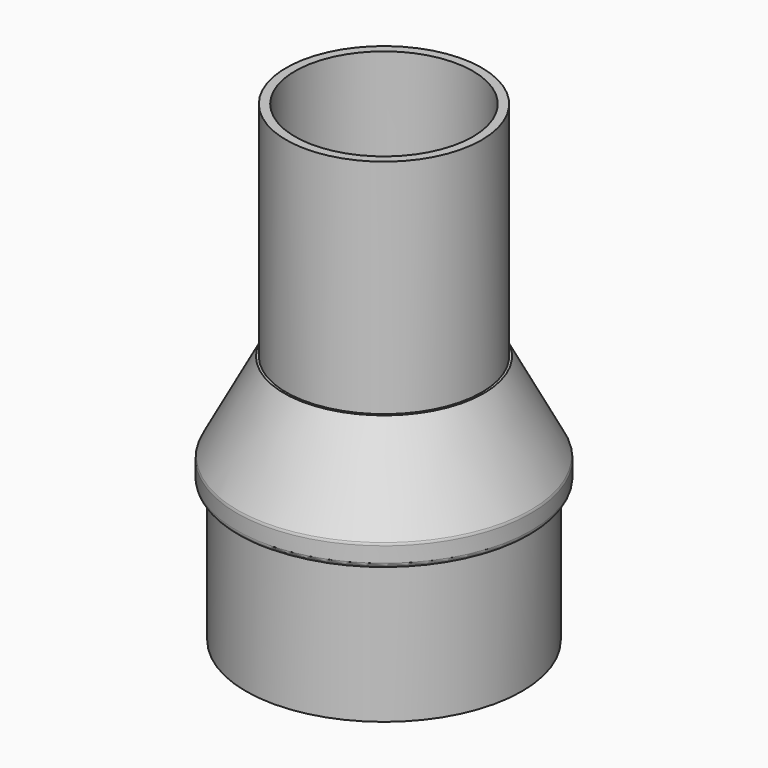
from build123d import *

# Parameters (mm, degrees)
F0_R     = 24.85
F0_R_2   = 22.85
F1_DEPTH = 25
F2_START = 20
F0_R_3   = 17.6
F0_R_4   = 16
F2_DEPTH = 40
F0_R_5   = 26.5
F3_DEPTH = 20
F4_SIZE2 = 16
F4_SIZE  = 8.5
F5_SIZE  = 6
F6_R     = 10
F7_R     = 1.6
F8_R     = 1


with BuildPart() as f1:
    # F0 (on Top) → F1 (new body)
    with BuildSketch(Plane.XY):
        Circle(F0_R)
        Circle(F0_R_2, mode=Mode.SUBTRACT)
    extrude(amount=-F1_DEPTH)

    # F7
    f7_edges = [f1.edges().sort_by_distance(p)[0] for p in [
        (-22.85, 0, -25),
    ]]
    fillet(f7_edges, radius=F7_R)


with BuildPart() as f2:
    # F0 (on Top) → F2 (new body)
    with BuildSketch(Plane.XY.offset(F2_START)):
        Circle(F0_R_3)
        Circle(F0_R_4, mode=Mode.SUBTRACT)
    extrude(amount=F2_DEPTH)


with BuildPart() as f3:
    # F0 (on Top) → F3 (new body)
    with BuildSketch(Plane.XY):
        Circle(F0_R_5)
        Circle(F0_R, mode=Mode.SUBTRACT)
        Circle(F0_R)
        Circle(F0_R_2, mode=Mode.SUBTRACT)
        Circle(F0_R_2)
        Circle(F0_R_3, mode=Mode.SUBTRACT)
        Circle(F0_R_3)
        Circle(F0_R_4, mode=Mode.SUBTRACT)
    extrude(amount=F3_DEPTH)

    # F4
    f4_edges = [f3.edges().sort_by_distance(p)[0] for p in [
        (-26.5, 0, 20),
    ]]
    f4_side = f3.faces().sort_by_distance((-16.749533, 0, 20))[0]
    chamfer(f4_edges, length=F4_SIZE, length2=F4_SIZE2, reference=f4_side)

    # F5
    f5_edges = [f3.edges().sort_by_distance(p)[0] for p in [
        (-16, 0, 0),
    ]]
    chamfer(f5_edges, length=F5_SIZE)

    # F6
    f6_edges = [f3.edges().sort_by_distance(p)[0] for p in [
        (-16, 0, 6),
    ]]
    fillet(f6_edges, radius=F6_R)

    # F8
    f8_edges = [f3.edges().sort_by_distance(p)[0] for p in [
        (-26.5, 0, 0),
        (-26.5, 0, 4),
    ]]
    fillet(f8_edges, radius=F8_R)


solid = Compound([f1.part, f2.part, f3.part])
